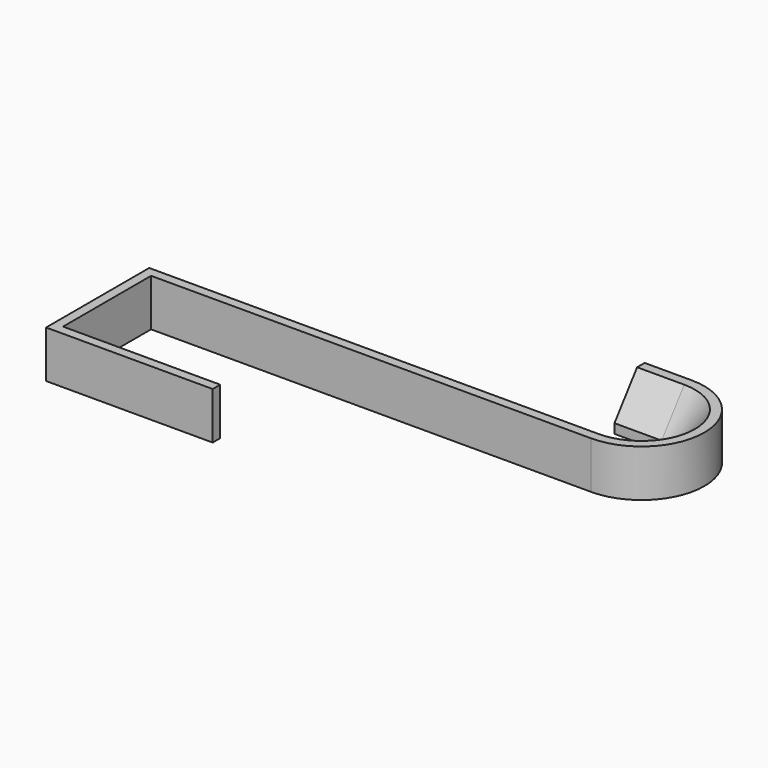
from build123d import *

# Parameters (mm, degrees)
F3_W = 3
F3_H = 15


with BuildPart() as f2:
    # F2: sweep along a path in F0
    with BuildLine(Plane.XY) as f2_path:
        Line((0, 0), (143, 0))
        ThreePointArc((143, 0), (163, 20), (143, 40))
        Line((143, 40), (128, 40))
    # F1 (on Right) → F2 (sweep)
    with BuildSketch(Plane.YZ):
        Polygon((0, 15), (0, 0), (12, 0), (12, 3), (3, 3), (3, 15), align=None)
        Polygon((3, 3), (12, 3), (3, 15), align=None)
    sweep(path=f2_path.line)

    # F4: sweep along a path in F0
    with BuildLine(Plane.XY) as f4_path:
        Line((3, 0), (3, -35))
        Line((3, -35), (53, -35))
    # F3 (on face) → F4 (sweep)
    with BuildSketch(Plane.XZ):
        with Locations((1.5, 7.5)):
            Rectangle(F3_W, F3_H)
    sweep(path=f4_path.line, transition=Transition.RIGHT)


solid = f2.part
